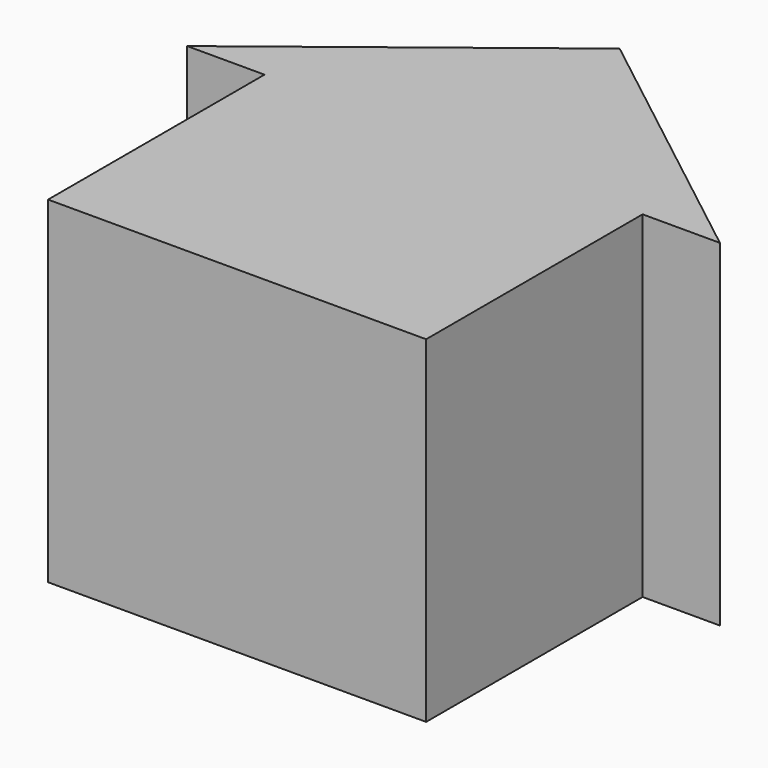
from build123d import *

# Parameters (mm, degrees)
PAD_DEPTH = 30


with BuildPart() as part:
    # Sketch → Pad (new body)
    with BuildSketch(Plane.XY):
        Polygon((-16.83411, 14.016525), (-16.83411, -10.075894), (16.83411, -10.075894), (16.83411, 14.016525), (23.722345, 14.016525), (0, 32.507489), (-23.722345, 14.016525), align=None)
    extrude(amount=PAD_DEPTH)


solid = part.part
